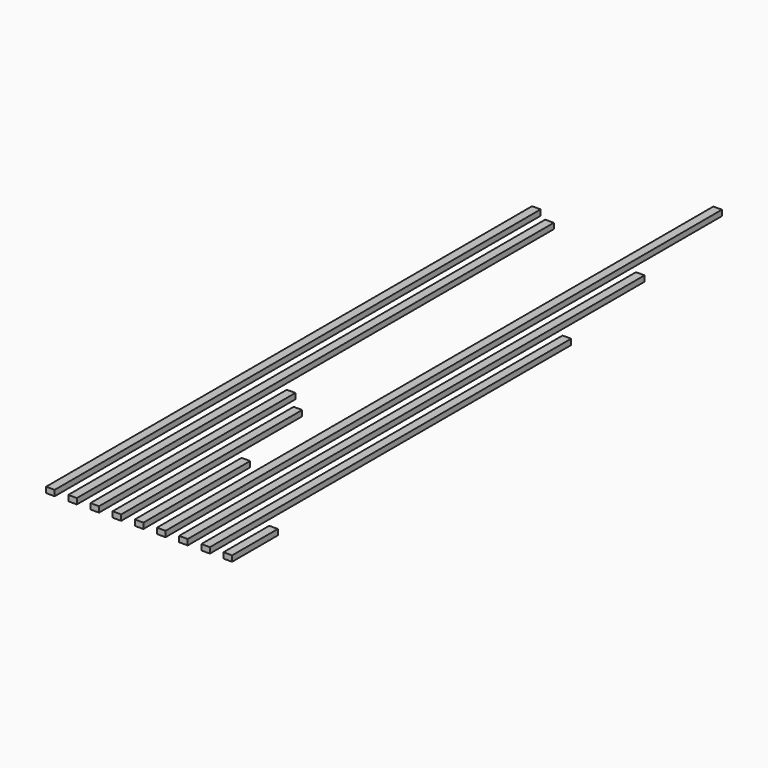
from build123d import *

# Parameters (mm, degrees)
F0_W     = 38
F0_H     = 25
F1_DEPTH = 2685
F2_DEPTH = 2635
F3_DEPTH = 1085
F4_DEPTH = 1000
F5_DEPTH = 590
F6_DEPTH = 3074
F7_DEPTH = 2524
F8_DEPTH = 1996
F9_DEPTH = 253


with BuildPart() as f1:
    # F0 (on Front) → F1 (new body)
    with BuildSketch(Plane.XZ):
        with Locations((19, 12.5)):
            Rectangle(F0_W, F0_H)
    extrude(amount=-F1_DEPTH)


with BuildPart() as f2:
    # F0 (on Front) → F2 (new body)
    with BuildSketch(Plane.XZ):
        with Locations((117, 12.5)):
            Rectangle(F0_W, F0_H)
    extrude(amount=-F2_DEPTH)


with BuildPart() as f3:
    # F0 (on Front) → F3 (new body)
    with BuildSketch(Plane.XZ):
        with Locations((215, 12.5)):
            Rectangle(F0_W, F0_H)
    extrude(amount=-F3_DEPTH)


with BuildPart() as f4:
    # F0 (on Front) → F4 (new body)
    with BuildSketch(Plane.XZ):
        with Locations((313, 12.5)):
            Rectangle(F0_W, F0_H)
    extrude(amount=-F4_DEPTH)


with BuildPart() as f5:
    # F0 (on Front) → F5 (new body)
    with BuildSketch(Plane.XZ):
        with Locations((411, 12.5)):
            Rectangle(F0_W, F0_H)
    extrude(amount=-F5_DEPTH)


with BuildPart() as f6:
    # F0 (on Front) → F6 (new body)
    with BuildSketch(Plane.XZ):
        with Locations((509, 12.5)):
            Rectangle(F0_W, F0_H)
    extrude(amount=-F6_DEPTH)


with BuildPart() as f7:
    # F0 (on Front) → F7 (new body)
    with BuildSketch(Plane.XZ):
        with Locations((607, 12.5)):
            Rectangle(F0_W, F0_H)
    extrude(amount=-F7_DEPTH)


with BuildPart() as f8:
    # F0 (on Front) → F8 (new body)
    with BuildSketch(Plane.XZ):
        with Locations((705, 12.5)):
            Rectangle(F0_W, F0_H)
    extrude(amount=-F8_DEPTH)


with BuildPart() as f9:
    # F0 (on Front) → F9 (new body)
    with BuildSketch(Plane.XZ):
        with Locations((803, 12.5)):
            Rectangle(F0_W, F0_H)
    extrude(amount=-F9_DEPTH)


solid = Compound([f1.part, f2.part, f3.part, f4.part, f5.part, f6.part, f7.part, f8.part, f9.part])
